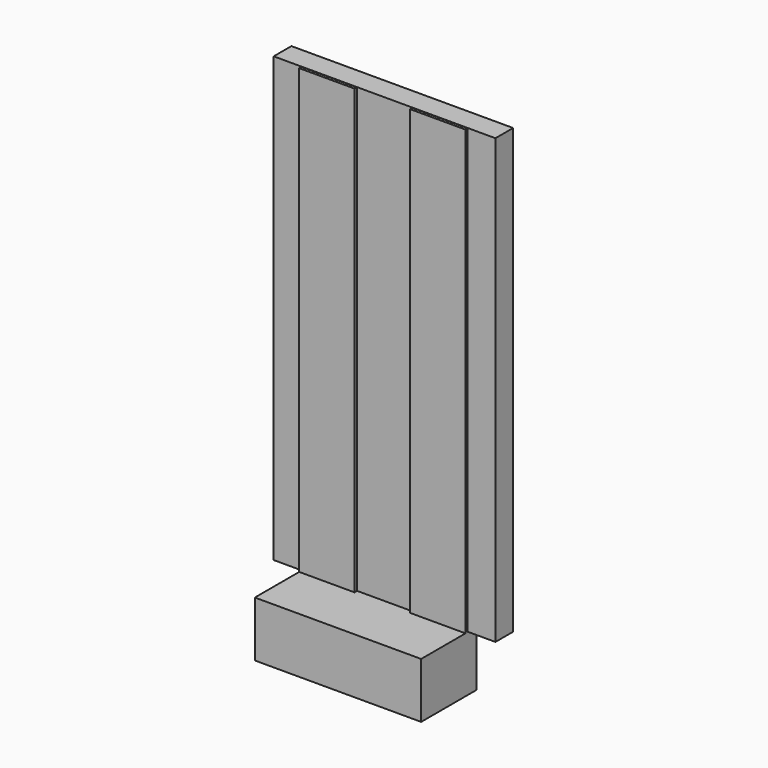
from build123d import *

# Parameters (mm, degrees)
F0_W     = 25.4
F0_H     = 2.54
F1_DEPTH = 25.4
F3_DEPTH = 1.5875
F4_W     = 19.05
F4_H     = 6.35
F5_DEPTH = 6.35


with BuildPart() as f1:
    # F0 (on Top) → F1 (new body, symmetric)
    with BuildSketch(Plane.XY):
        Rectangle(F0_W, F0_H)
    extrude(amount=F1_DEPTH, both=True)


with BuildPart() as f3:
    # F2 (on Front) → F3 (new body)
    with BuildSketch(Plane.XZ):
        Polygon((-3.175, 25.365581), (-9.525, 25.365581), (-9.525, -25.434419), (-9.525, -31.784419), (9.525, -31.784419), (9.525, -25.434419), (9.525, 25.365581), (3.175, 25.365581), (3.175, -25.434419), (-3.175, -25.434419), align=None)
    extrude(amount=F3_DEPTH)

    # F4 (on face) → F5 (join)
    with BuildSketch(Plane.XZ.offset(1.5875)):
        with Locations((0, -28.609419)):
            Rectangle(F4_W, F4_H)
    extrude(amount=F5_DEPTH)


solid = Compound([f1.part, f3.part])
